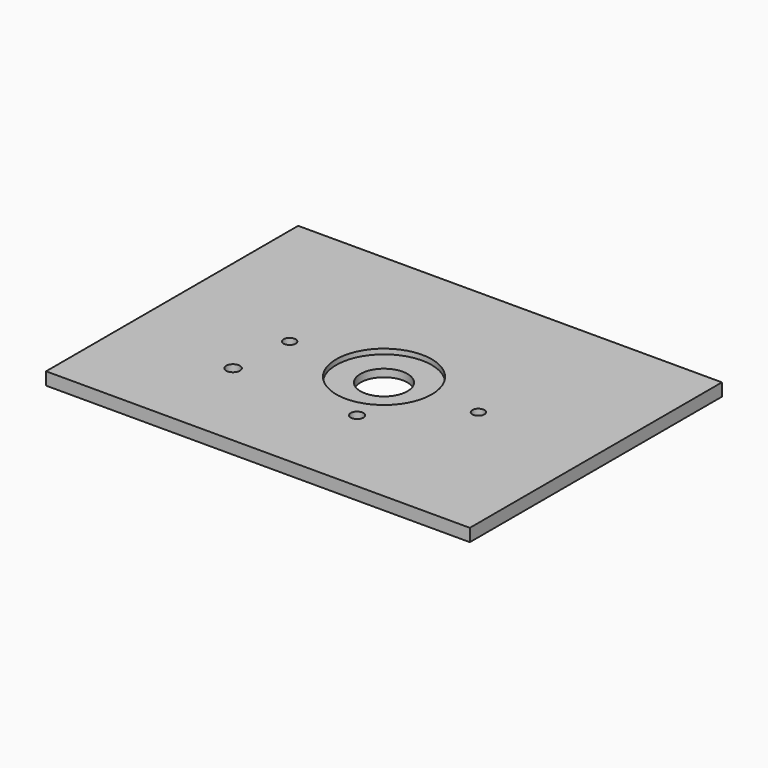
from build123d import *

# Parameters (mm, degrees)
F0_W     = 334.81425
F0_H     = 248.943686
F0_R     = 5.419386
F0_R_2   = 37.693242
F0_R_3   = 5.016208
F0_R_4   = 4.737071
F0_R_5   = 4.78041
F1_DEPTH = 10
F0_R_6   = 18.564312
F2_DEPTH = 6


with BuildPart() as f1:
    # F0 (on Top) → F1 (new body)
    with BuildSketch(Plane.XY):
        Rectangle(F0_W, F0_H)
        with Locations((-79.878467, -49.218287)):
            Circle(F0_R, mode=Mode.SUBTRACT)
        Circle(F0_R_2, mode=Mode.SUBTRACT)
        with Locations((19.168967, -50.543149)):
            Circle(F0_R_3, mode=Mode.SUBTRACT)
        with Locations((75, -0.543149)):
            Circle(F0_R_4, mode=Mode.SUBTRACT)
        with Locations((-75, 0.543149)):
            Circle(F0_R_5, mode=Mode.SUBTRACT)
    extrude(amount=F1_DEPTH)

    # F0 (on Top) → F2 (join)
    with BuildSketch(Plane.XY):
        Circle(F0_R_2)
        Circle(F0_R_6, mode=Mode.SUBTRACT)
    extrude(amount=F2_DEPTH)


solid = f1.part
